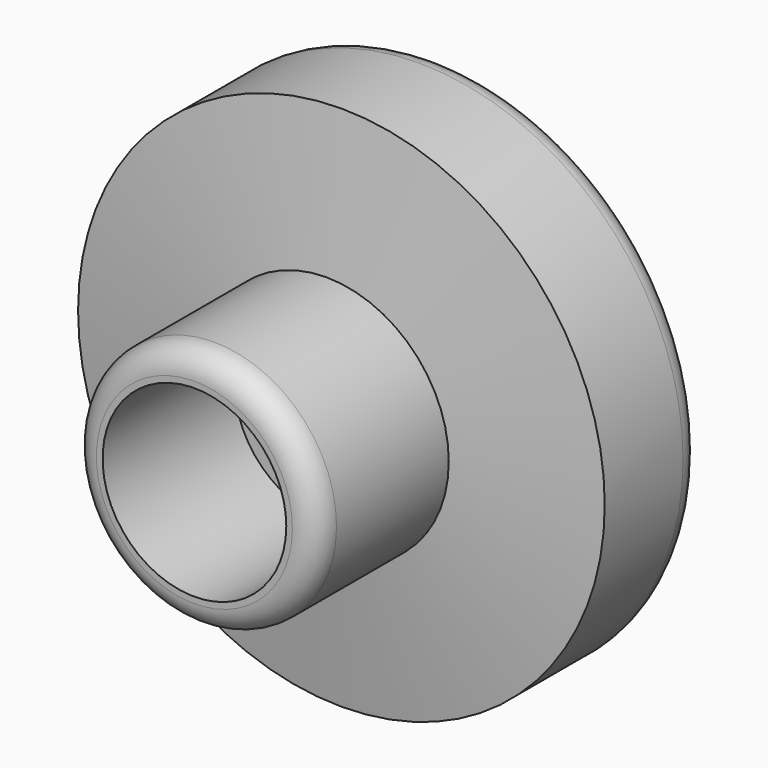
from build123d import *

# Parameters (mm, degrees)
F0_R     = 21.5
F0_R_2   = 19
F1_DEPTH = 10
F5_R     = 10
F5_R_2   = 7.5
F6_DEPTH = 15
F8_D     = 5
F8_DEPTH = 50.8
F9_R     = 2
F10_R    = 2


with BuildPart() as f1:
    # F0 (on Front) → F1 (new body)
    with BuildSketch(Plane.XZ):
        Circle(F0_R)
        Circle(F0_R_2, mode=Mode.SUBTRACT)
    extrude(amount=F1_DEPTH)

    # F9
    f9_edges = [f1.edges().sort_by_distance(p)[0] for p in [
        (-21.5, 0, 0),
    ]]
    fillet(f9_edges, radius=F9_R)


with BuildPart() as f4:
    # F3 (on Right) → F4 (revolve)
    with BuildSketch(Plane.YZ):
        Polygon((-11.54314, 0), (-9.999976, 0), (-9.999976, 21.501865), (-11.54314, 9.994091), align=None)
    revolve(axis=Axis((0, -10.771558, 0), (0, 1, 0)))

    # F5 (on offset) → F6 (join)
    with BuildSketch(Plane.XZ.offset(10)):
        Circle(F5_R)
        Circle(F5_R_2, mode=Mode.SUBTRACT)
    extrude(amount=F6_DEPTH)

    # F8
    with Locations(Plane(origin=(0, 0, 0), x_dir=(1, 0, 0), z_dir=(0, 1, 0))):
        with Locations((0, 0)):
            Hole(F8_D / 2, depth=F8_DEPTH)

    # F10
    f10_edges = [f4.edges().sort_by_distance(p)[0] for p in [
        (-10, -25, 0),
    ]]
    fillet(f10_edges, radius=F10_R)


solid = Compound([f1.part, f4.part])
